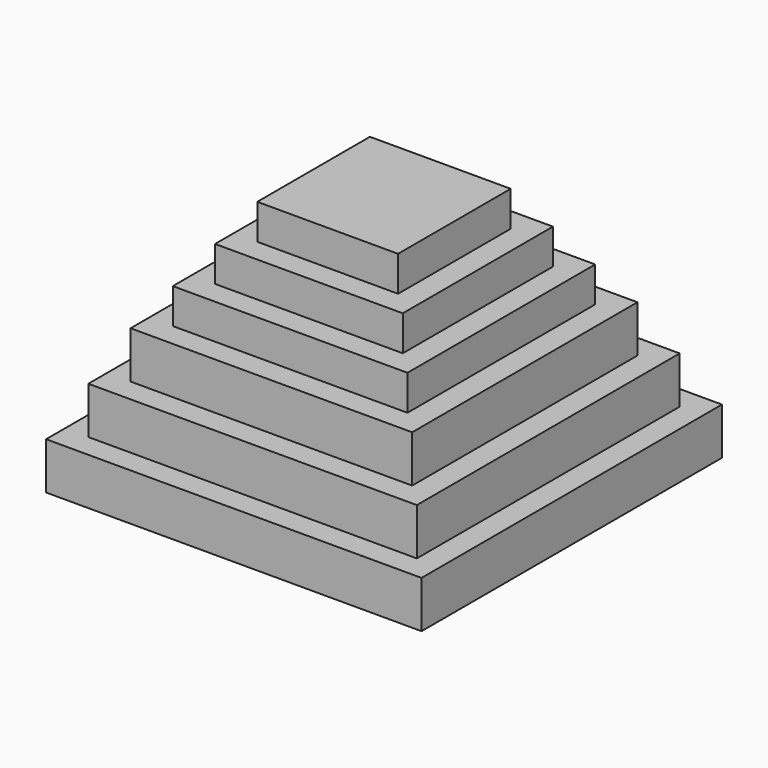
from build123d import *

# Parameters (mm, degrees)
F0_W      = 101.6
F0_H      = 101.6
F1_DEPTH  = 25.4
F2_W      = 88.9
F2_H      = 88.9
F3_DEPTH  = 25.4
F4_W      = 76.2
F4_H      = 76.2
F5_DEPTH  = 25.4
F6_W      = 63.5
F6_H      = 63.5
F7_DEPTH  = 19.05
F8_W      = 50.8
F8_H      = 50.8
F9_DEPTH  = 19.05
F10_W     = 38.1
F10_H     = 38.1
F11_DEPTH = 19.05


with BuildPart() as f1:
    # F0 (on Top) → F1 (new body)
    with BuildSketch(Plane.XY):
        with Locations((50.8, 50.8)):
            Rectangle(F0_W, F0_H)
        with Locations((-50.8, 50.8)):
            Rectangle(F0_W, F0_H)
        with Locations((-50.8, -50.8)):
            Rectangle(F0_W, F0_H)
        with Locations((50.8, -50.8)):
            Rectangle(F0_W, F0_H)
    extrude(amount=F1_DEPTH)

    # F2 (on face) → F3 (join)
    with BuildSketch(Plane.XY.offset(25.4)):
        with Locations((44.45, 44.45)):
            Rectangle(F2_W, F2_H)
        with Locations((44.45, -44.45)):
            Rectangle(F2_W, F2_H)
        with Locations((-44.45, -44.45)):
            Rectangle(F2_W, F2_H)
        with Locations((-44.45, 44.45)):
            Rectangle(F2_W, F2_H)
    extrude(amount=F3_DEPTH)

    # F4 (on face) → F5 (join)
    with BuildSketch(Plane.XY.offset(50.8)):
        with Locations((38.1, 38.1)):
            Rectangle(F4_W, F4_H)
        with Locations((38.1, -38.1)):
            Rectangle(F4_W, F4_H)
        with Locations((-38.1, -38.1)):
            Rectangle(F4_W, F4_H)
        with Locations((-38.1, 38.1)):
            Rectangle(F4_W, F4_H)
    extrude(amount=F5_DEPTH)

    # F6 (on face) → F7 (join)
    with BuildSketch(Plane.XY.offset(76.2)):
        with Locations((31.75, -31.75)):
            Rectangle(F6_W, F6_H)
        with Locations((-31.75, -31.75)):
            Rectangle(F6_W, F6_H)
        with Locations((31.75, 31.75)):
            Rectangle(F6_W, F6_H)
        with Locations((-31.75, 31.75)):
            Rectangle(F6_W, F6_H)
    extrude(amount=F7_DEPTH)

    # F8 (on face) → F9 (join)
    with BuildSketch(Plane.XY.offset(95.25)):
        with Locations((25.4, 25.4)):
            Rectangle(F8_W, F8_H)
        with Locations((25.4, -25.4)):
            Rectangle(F8_W, F8_H)
        with Locations((-25.4, -25.4)):
            Rectangle(F8_W, F8_H)
        with Locations((-25.4, 25.4)):
            Rectangle(F8_W, F8_H)
    extrude(amount=F9_DEPTH)

    # F10 (on face) → F11 (join)
    with BuildSketch(Plane.XY.offset(114.3)):
        with Locations((-19.05, -19.05)):
            Rectangle(F10_W, F10_H)
        with Locations((19.05, -19.05)):
            Rectangle(F10_W, F10_H)
        with Locations((19.05, 19.05)):
            Rectangle(F10_W, F10_H)
        with Locations((-19.05, 19.05)):
            Rectangle(F10_W, F10_H)
    extrude(amount=F11_DEPTH)


solid = f1.part
